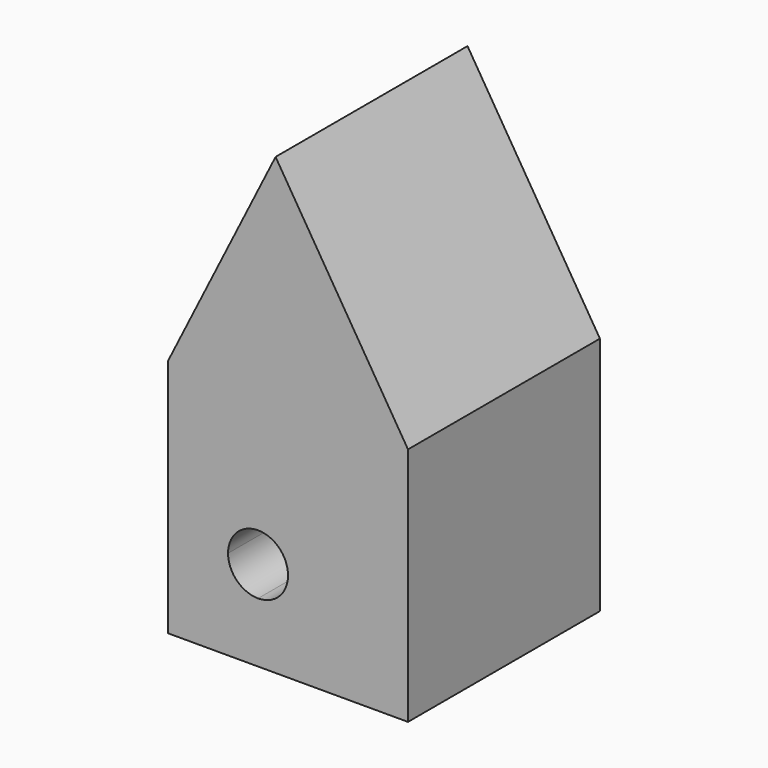
from build123d import *

# Parameters (mm, degrees)
F1_DEPTH = 50.8


with BuildPart() as f1:
    # F0 (on Front) → F1 (new body)
    with BuildSketch(Plane.XZ):
        with BuildLine():
            Line((58.541361, 3.749926), (26.791361, 3.749926))
            Line((26.791361, 3.749926), (26.791361, -21.650074))
            ThreePointArc((26.791361, -21.650074), (31.281489, -23.509946), (33.141361, -28.000074))
            Line((33.141361, -28.000074), (58.541361, -28.000074))
            Line((58.541361, -28.000074), (58.541361, 3.749926))
        make_face()
        with BuildLine():
            Line((26.791361, 3.749926), (7.741361, 3.749926))
            Line((7.741361, 3.749926), (7.741361, -28.000074))
            Line((7.741361, -28.000074), (20.441361, -28.000074))
            ThreePointArc((20.441361, -28.000074), (22.301233, -23.509946), (26.791361, -21.650074))
            Line((26.791361, -21.650074), (26.791361, 3.749926))
        make_face()
        with BuildLine():
            Line((20.441361, -28.000074), (7.741361, -28.000074))
            Line((7.741361, -28.000074), (7.741361, -47.050074))
            Line((7.741361, -47.050074), (26.791361, -47.050074))
            Line((26.791361, -47.050074), (26.791361, -34.350074))
            ThreePointArc((26.791361, -34.350074), (22.301233, -32.490202), (20.441361, -28.000074))
        make_face()
        with BuildLine():
            Line((58.541361, -47.050074), (58.541361, -28.000074))
            Line((58.541361, -28.000074), (33.141361, -28.000074))
            ThreePointArc((33.141361, -28.000074), (31.281489, -32.490202), (26.791361, -34.350074))
            Line((26.791361, -34.350074), (26.791361, -47.050074))
            Line((26.791361, -47.050074), (58.541361, -47.050074))
        make_face()
        Polygon((30.503648, 49.164883), (7.741361, 3.749926), (26.791361, 3.749926), (58.541361, 3.749926), align=None)
    extrude(amount=F1_DEPTH)


solid = f1.part
